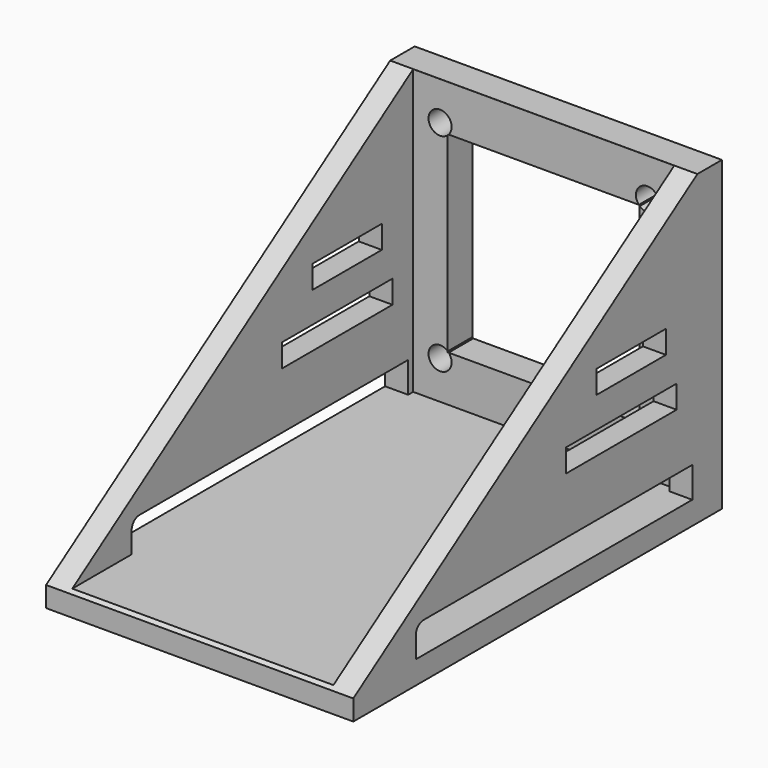
from build123d import *

# Parameters (mm, degrees)
F0_W      = 40
F0_H      = 56
F1_DEPTH  = 3
F0_H_2    = 4
F2_DEPTH  = 40
F3_W      = 3
F3_H      = 37
F4_DEPTH  = 56
F6_DEPTH  = 40.001
F8_DEPTH  = 4.001
F9_W      = 11.2977698445
F9_H      = 3
F9_W_2    = 18.0093161762
F10_DEPTH = 40.001


with BuildPart() as f1:
    # F0 (on Top) → F1 (new body)
    with BuildSketch(Plane.XY):
        with Locations((-20, 28)):
            Rectangle(F0_W, F0_H)
    extrude(amount=F1_DEPTH)

    # F0 (on Top) → F2 (join)
    with BuildSketch(Plane.XY):
        with Locations((-20, 58)):
            Rectangle(F0_W, F0_H_2)
    extrude(amount=F2_DEPTH)

    # F3 (on face) → F4 (join)
    with BuildSketch(Plane.XZ.offset(-56)):
        with Locations((-38.5, 21.5)):
            Rectangle(F3_W, F3_H)
        with Locations((-1.5, 21.5)):
            Rectangle(F3_W, F3_H)
    extrude(amount=F4_DEPTH)

    # F5 (on face) → F6 (cut, through all)
    with BuildSketch(Plane(origin=(-40, 0, 0), x_dir=(0, -1, 0), z_dir=(-1, 0, 0))):
        Polygon((0, 40), (-56.0063011944, 40), (0, 2.6555121876), align=None)
    extrude(amount=-F6_DEPTH, mode=Mode.SUBTRACT)

    # F7 (on face) → F8 (cut, through all)
    with BuildSketch(Plane.XZ.offset(-56)):
        with BuildLine():
            Line((-32.3819660113, 34), (-32.5, 34))
            Line((-32.5, 34), (-32.5, 33.8819660113))
            ThreePointArc((-32.5, 33.8819660113), (-32.4393398282, 33.9393398282), (-32.3819660113, 34))
        make_face()
        with BuildLine():
            Line((-7.6180339887, 34), (-32.3819660113, 34))
            ThreePointArc((-32.3819660113, 34), (-32.4393398282, 33.9393398282), (-32.5, 33.8819660113))
            Line((-32.5, 33.8819660113), (-32.5, 9.1180339887))
            ThreePointArc((-32.5, 9.1180339887), (-32.4393398282, 9.0606601718), (-32.3819660113, 9))
            Line((-32.3819660113, 9), (-7.6180339887, 9))
            ThreePointArc((-7.6180339887, 9), (-7.5606601718, 9.0606601718), (-7.5, 9.1180339887))
            Line((-7.5, 9.1180339887), (-7.5, 33.8819660113))
            ThreePointArc((-7.5, 33.8819660113), (-7.5606601718, 33.9393398282), (-7.6180339887, 34))
        make_face()
        with BuildLine():
            Line((-7.5, 34), (-7.6180339887, 34))
            ThreePointArc((-7.6180339887, 34), (-7.5606601718, 33.9393398282), (-7.5, 33.8819660113))
            Line((-7.5, 33.8819660113), (-7.5, 34))
        make_face()
        with BuildLine():
            Line((-32.3819660113, 34), (-32.5, 34))
            Line((-32.5, 34), (-32.5, 33.8819660113))
            ThreePointArc((-32.5, 33.8819660113), (-32.4393398282, 33.9393398282), (-32.3819660113, 34))
        make_face()
        with BuildLine():
            Line((-32.5, 33.8819660113), (-32.5, 34))
            Line((-32.5, 34), (-32.3819660113, 34))
            ThreePointArc((-32.3819660113, 34), (-32.0987414616, 34.4647668653), (-32, 35))
            ThreePointArc((-32, 35), (-34.8693063938, 35.6123724357), (-32.5, 33.8819660113))
        make_face()
        with BuildLine():
            Line((-7.6180339887, 34), (-32.3819660113, 34))
            ThreePointArc((-32.3819660113, 34), (-32.4393398282, 33.9393398282), (-32.5, 33.8819660113))
            Line((-32.5, 33.8819660113), (-32.5, 9.1180339887))
            ThreePointArc((-32.5, 9.1180339887), (-32.4393398282, 9.0606601718), (-32.3819660113, 9))
            Line((-32.3819660113, 9), (-7.6180339887, 9))
            ThreePointArc((-7.6180339887, 9), (-7.5606601718, 9.0606601718), (-7.5, 9.1180339887))
            Line((-7.5, 9.1180339887), (-7.5, 33.8819660113))
            ThreePointArc((-7.5, 33.8819660113), (-7.5606601718, 33.9393398282), (-7.6180339887, 34))
        make_face()
        with BuildLine():
            Line((-32.5, 9), (-32.5, 9.1180339887))
            ThreePointArc((-32.5, 9.1180339887), (-34.8693063938, 7.3876275643), (-32, 8))
            ThreePointArc((-32, 8), (-32.0987414616, 8.5352331347), (-32.3819660113, 9))
            Line((-32.3819660113, 9), (-32.5, 9))
        make_face()
        with BuildLine():
            ThreePointArc((-5, 35), (-7.0352331347, 36.4012585384), (-7.6180339887, 34))
            Line((-7.6180339887, 34), (-7.5, 34))
            Line((-7.5, 34), (-7.5, 33.8819660113))
            ThreePointArc((-7.5, 33.8819660113), (-5.8876275643, 33.6306936062), (-5, 35))
        make_face()
        with BuildLine():
            ThreePointArc((-5, 8), (-5.8876275643, 9.3693063938), (-7.5, 9.1180339887))
            Line((-7.5, 9.1180339887), (-7.5, 9))
            Line((-7.5, 9), (-7.6180339887, 9))
            ThreePointArc((-7.6180339887, 9), (-7.0352331347, 6.5987414616), (-5, 8))
        make_face()
    extrude(amount=-F8_DEPTH, mode=Mode.SUBTRACT)

    # F9 (on face) → F10 (cut, through all)
    with BuildSketch(Plane(origin=(-40, 0, 0), x_dir=(0, -1, 0), z_dir=(-1, 0, 0))):
        with BuildLine():
            Line((-55.1785277575, 7), (-55.1785277575, 3))
            Line((-55.1785277575, 3), (-10.1785277575, 3))
            Line((-10.1785277575, 3), (-10.1785277575, 5.7471251963))
            ThreePointArc((-10.1785277575, 5.7471251963), (-10.5454862916, 6.633041466), (-11.4314025613, 7))
            Line((-11.4314025613, 7), (-55.1785277575, 7))
        make_face()
        with Locations((-45.2438443899, 22.8499646634)):
            Rectangle(F9_W, F9_H)
        with Locations((-43.6218883842, 15.8587701023)):
            Rectangle(F9_W_2, F9_H)
    extrude(amount=-F10_DEPTH, mode=Mode.SUBTRACT)


solid = f1.part
